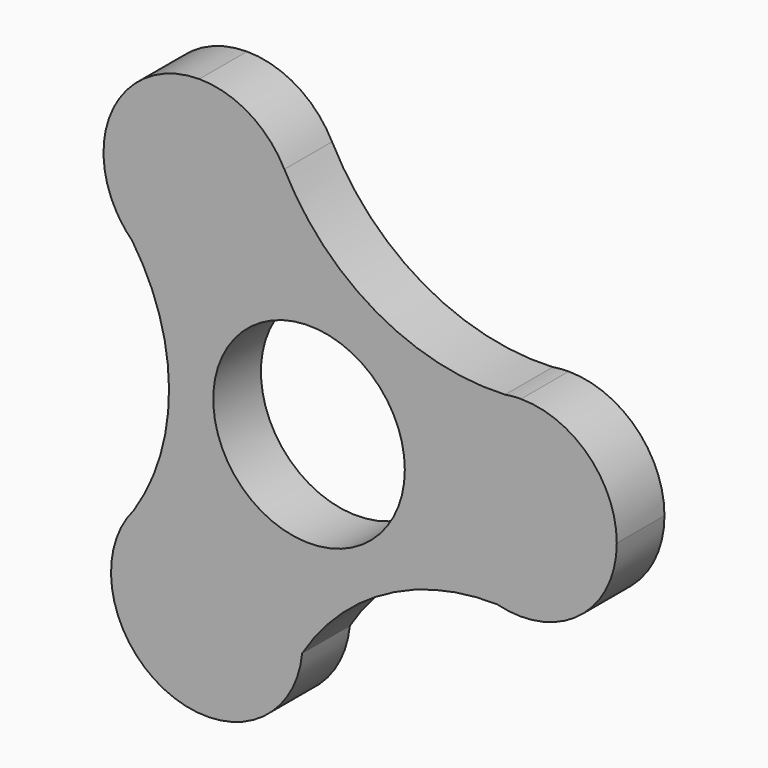
from build123d import *

# Parameters (mm, degrees)
F0_R     = 11.25
F1_DEPTH = 7


with BuildPart() as f1:
    # F0 (on Front) → F1 (new body)
    with BuildSketch(Plane.XZ):
        with BuildLine():
            ThreePointArc((-7.887271, 21.081102), (4.349178, 18.727848), (11.25, 29.103162))
            ThreePointArc((11.25, 29.103162), (10.931631, 31.760592), (9.994545, 34.267615))
            ThreePointArc((9.994545, 34.267615), (5.850744, 38.71208), (0, 40.353162))
            ThreePointArc((0, 40.353162), (-9.742786, 34.728162), (-9.742786, 23.478162))
            ThreePointArc((-9.742786, 23.478162), (-8.778616, 22.307818), (-7.887271, 21.081102))
        make_face()
        with BuildLine():
            ThreePointArc((9.994545, 34.267615), (10.931631, 31.760592), (11.25, 29.103162))
            ThreePointArc((11.25, 29.103162), (4.349178, 18.727848), (-7.887271, 21.081102))
            ThreePointArc((-7.887271, 21.081102), (-3.555278, 7.208038), (-7.683182, -6.727115))
            ThreePointArc((-7.683182, -6.727115), (4.76893, -3.45937), (12.134851, -14.01761))
            ThreePointArc((12.134851, -14.01761), (12.121758, -14.560218), (12.082509, -15.101564))
            ThreePointArc((12.082509, -15.101564), (21.85605, -5.789575), (34.969017, -2.582499))
            ThreePointArc((34.969017, -2.582499), (26.546491, 8.792265), (35.914129, 19.402239))
            ThreePointArc((35.914129, 19.402239), (20.775302, 23.035515), (9.994545, 34.267615))
        make_face()
        with Locations((12.89032, 7.798211)):
            Circle(F0_R, mode=Mode.SUBTRACT)
        with BuildLine():
            ThreePointArc((-9.742786, 23.478162), (-8.896134, 22.21685), (-7.887271, 21.081102))
            ThreePointArc((-7.887271, 21.081102), (-8.778616, 22.307818), (-9.742786, 23.478162))
        make_face()
        with BuildLine():
            ThreePointArc((37.78611, 19.55908), (36.851451, 19.464768), (35.914129, 19.402239))
            ThreePointArc((35.914129, 19.402239), (26.546491, 8.792265), (34.969017, -2.582499))
            ThreePointArc((34.969017, -2.582499), (44.673425, -0.586278), (49.03611, 8.30908))
            ThreePointArc((49.03611, 8.30908), (45.741061, 16.264031), (37.78611, 19.55908))
        make_face()
        with BuildLine():
            ThreePointArc((37.78611, 19.55908), (36.84684, 19.519801), (35.914129, 19.402239))
            ThreePointArc((35.914129, 19.402239), (36.851451, 19.464768), (37.78611, 19.55908))
        make_face()
        with BuildLine():
            ThreePointArc((12.134851, -14.01761), (4.76893, -3.45937), (-7.683182, -6.727115))
            ThreePointArc((-7.683182, -6.727115), (-3.50395, -24.376226), (12.082509, -15.101564))
            ThreePointArc((12.082509, -15.101564), (12.121758, -14.560218), (12.134851, -14.01761))
        make_face()
    extrude(amount=F1_DEPTH)


solid = f1.part
